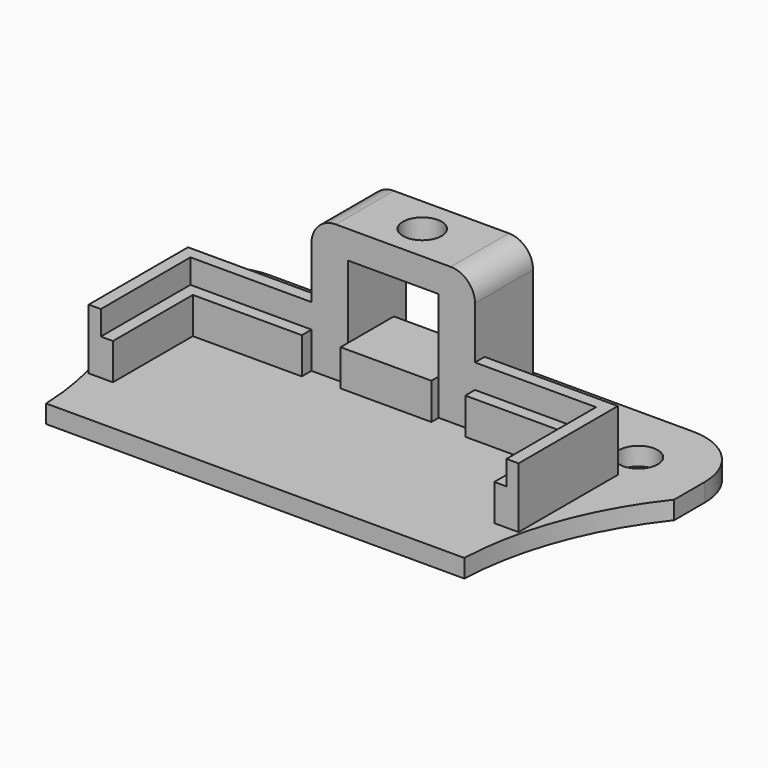
from build123d import *

# Parameters (mm, degrees)
BOX148_W          = 3
BOX148_H          = 6
BOX148_DEPTH      = 9
BOX149_W          = 3
BOX149_H          = 6
BOX149_DEPTH      = 9
BOX151_W          = 2
BOX151_H          = 10.25
BOX151_DEPTH      = 3
BOX152_W          = 2
BOX152_H          = 10.25
BOX152_DEPTH      = 3
BOX153_W          = 1
BOX153_H          = 10.25
BOX153_DEPTH      = 2
BOX154_W          = 1
BOX154_H          = 10.25
BOX154_DEPTH      = 2
BOX155_W          = 7.5
BOX155_H          = 5.5
BOX155_DEPTH      = 3
BOX156_W          = 9
BOX156_H          = 2
BOX156_DEPTH      = 3
BOX157_W          = 9
BOX157_H          = 2
BOX157_DEPTH      = 3
BOX158_W          = 10
BOX158_H          = 1
BOX158_DEPTH      = 2
BOX159_W          = 10
BOX159_H          = 1
BOX159_DEPTH      = 2
CYLINDER066_R     = 1.6
CYLINDER066_DEPTH = 3
BOX150_W          = 13.5
BOX150_H          = 6
BOX150_DEPTH      = 2.3
FILLET035_R       = 2
CYLINDER065_R     = 1.6
CYLINDER065_DEPTH = 1.5
CYLINDER064_R     = 1.6
CYLINDER064_DEPTH = 1.5
CYLINDER063_R     = 25.5
CYLINDER063_DEPTH = 3
CYLINDER062_R     = 25.5
CYLINDER062_DEPTH = 3
BOX147_W          = 45
BOX147_H          = 23
BOX147_DEPTH      = 1.5
FILLET034_R       = 5


with BuildPart() as cube137:
    # Box148 → Box148 (new body)
    with BuildSketch(Plane(origin=(52.5, 29.25, -3), x_dir=(1, 0, 0), z_dir=(0, 0, 1))):
        with Locations((1.5, 3)):
            Rectangle(BOX148_W, BOX148_H)
    extrude(amount=BOX148_DEPTH)


with BuildPart() as cube138:
    # Box149 → Box149 (new body)
    with BuildSketch(Plane(origin=(63, 29.25, -3), x_dir=(1, 0, 0), z_dir=(0, 0, 1))):
        with Locations((1.5, 3)):
            Rectangle(BOX149_W, BOX149_H)
    extrude(amount=BOX149_DEPTH)


with BuildPart() as cube140:
    # Box151 → Box151 (new body)
    with BuildSketch(Plane(origin=(41.5, 20, -3), x_dir=(1, 0, 0), z_dir=(0, 0, 1))):
        with Locations((1, 5.125)):
            Rectangle(BOX151_W, BOX151_H)
    extrude(amount=BOX151_DEPTH)


with BuildPart() as cube141:
    # Box152 → Box152 (new body)
    with BuildSketch(Plane(origin=(75, 20, -3), x_dir=(1, 0, 0), z_dir=(0, 0, 1))):
        with Locations((1, 5.125)):
            Rectangle(BOX152_W, BOX152_H)
    extrude(amount=BOX152_DEPTH)


with BuildPart() as cube142:
    # Box153 → Box153 (new body)
    with BuildSketch(Plane(origin=(41.5, 20, 0), x_dir=(1, 0, 0), z_dir=(0, 0, 1))):
        with Locations((0.5, 5.125)):
            Rectangle(BOX153_W, BOX153_H)
    extrude(amount=BOX153_DEPTH)


with BuildPart() as cube143:
    # Box154 → Box154 (new body)
    with BuildSketch(Plane(origin=(76, 20, 0), x_dir=(1, 0, 0), z_dir=(0, 0, 1))):
        with Locations((0.5, 5.125)):
            Rectangle(BOX154_W, BOX154_H)
    extrude(amount=BOX154_DEPTH)


with BuildPart() as cube144:
    # Box155 → Box155 (new body)
    with BuildSketch(Plane(origin=(55.5, 28.5, -3), x_dir=(1, 0, 0), z_dir=(0, 0, 1))):
        with Locations((3.75, 2.75)):
            Rectangle(BOX155_W, BOX155_H)
    extrude(amount=BOX155_DEPTH)


with BuildPart() as cube145:
    # Box156 → Box156 (new body)
    with BuildSketch(Plane(origin=(43.5, 28.25, -3), x_dir=(1, 0, 0), z_dir=(0, 0, 1))):
        with Locations((4.5, 1)):
            Rectangle(BOX156_W, BOX156_H)
    extrude(amount=BOX156_DEPTH)


with BuildPart() as cube146:
    # Box157 → Box157 (new body)
    with BuildSketch(Plane(origin=(66, 28.25, -3), x_dir=(1, 0, 0), z_dir=(0, 0, 1))):
        with Locations((4.5, 1)):
            Rectangle(BOX157_W, BOX157_H)
    extrude(amount=BOX157_DEPTH)


with BuildPart() as cube147:
    # Box158 → Box158 (new body)
    with BuildSketch(Plane(origin=(66, 29.25, 0), x_dir=(1, 0, 0), z_dir=(0, 0, 1))):
        with Locations((5, 0.5)):
            Rectangle(BOX158_W, BOX158_H)
    extrude(amount=BOX158_DEPTH)


with BuildPart() as cube148:
    # Box159 → Box159 (new body)
    with BuildSketch(Plane(origin=(42.5, 29.25, 0), x_dir=(1, 0, 0), z_dir=(0, 0, 1))):
        with Locations((5, 0.5)):
            Rectangle(BOX159_W, BOX159_H)
    extrude(amount=BOX159_DEPTH)


with BuildPart() as cylinder147:
    # Cylinder066 → Cylinder066 (new body)
    with BuildSketch(Plane(origin=(59.25, 32.25, 6), x_dir=(1, 0, 0), z_dir=(0, 0, 1))):
        Circle(CYLINDER066_R)
    extrude(amount=CYLINDER066_DEPTH)


with BuildPart() as cut090:
    # Box150 → Box150 (new body)
    with BuildSketch(Plane(origin=(52.5, 29.25, 6), x_dir=(1, 0, 0), z_dir=(0, 0, 1))):
        with Locations((6.75, 3)):
            Rectangle(BOX150_W, BOX150_H)
    extrude(amount=BOX150_DEPTH)

    # Fillet035
    fillet035_edges = [cut090.edges().sort_by_distance(p)[0] for p in [
        (52.5, 32.25, 8.3),
        (66, 32.25, 8.3),
    ]]
    fillet(fillet035_edges, radius=FILLET035_R)

    # Cut090: cut Cylinder147
    add(cylinder147.part, mode=Mode.SUBTRACT)


with BuildPart() as cylinder146:
    # Cylinder065 → Cylinder065 (new body)
    with BuildSketch(Plane(origin=(76.5, 33, -4.5), x_dir=(1, 0, 0), z_dir=(0, 0, 1))):
        Circle(CYLINDER065_R)
    extrude(amount=CYLINDER065_DEPTH)


with BuildPart() as cylinder145:
    # Cylinder064 → Cylinder064 (new body)
    with BuildSketch(Plane(origin=(42.5, 33, -4.5), x_dir=(1, 0, 0), z_dir=(0, 0, 1))):
        Circle(CYLINDER064_R)
    extrude(amount=CYLINDER064_DEPTH)


with BuildPart() as cylinder144:
    # Cylinder063 → Cylinder063 (new body)
    with BuildSketch(Plane(origin=(102, 14, -6), x_dir=(1, 0, 0), z_dir=(0, 0, 1))):
        Circle(CYLINDER063_R)
    extrude(amount=CYLINDER063_DEPTH)


with BuildPart() as cylinder143:
    # Cylinder062 → Cylinder062 (new body)
    with BuildSketch(Plane(origin=(16.5, 14, -6), x_dir=(1, 0, 0), z_dir=(0, 0, 1))):
        Circle(CYLINDER062_R)
    extrude(amount=CYLINDER062_DEPTH)


with BuildPart() as fusion049:
    # Box147 → Box147 (new body)
    with BuildSketch(Plane(origin=(37, 15, -4.5), x_dir=(1, 0, 0), z_dir=(0, 0, 1))):
        with Locations((22.5, 11.5)):
            Rectangle(BOX147_W, BOX147_H)
    extrude(amount=BOX147_DEPTH)

    # Cut086: cut Cylinder143
    add(cylinder143.part, mode=Mode.SUBTRACT)

    # Cut087: cut Cylinder144
    add(cylinder144.part, mode=Mode.SUBTRACT)

    # Fillet034
    fillet034_edges = [fusion049.edges().sort_by_distance(p)[0] for p in [
        (82, 38, -3.75),
        (37, 38, -3.75),
    ]]
    fillet(fillet034_edges, radius=FILLET034_R)

    # Cut088: cut Cylinder145
    add(cylinder145.part, mode=Mode.SUBTRACT)

    # Cut089: cut Cylinder146
    add(cylinder146.part, mode=Mode.SUBTRACT)

    # Fusion049: union Cube137, Cube138, Cube140, Cube141, Cube142, Cube143, Cube144, Cube145, Cube146, Cube147, Cube148, Cut090
    add(cube137.part)
    add(cube138.part)
    add(cube140.part)
    add(cube141.part)
    add(cube142.part)
    add(cube143.part)
    add(cube144.part)
    add(cube145.part)
    add(cube146.part)
    add(cube147.part)
    add(cube148.part)
    add(cut090.part)


solid = fusion049.part
